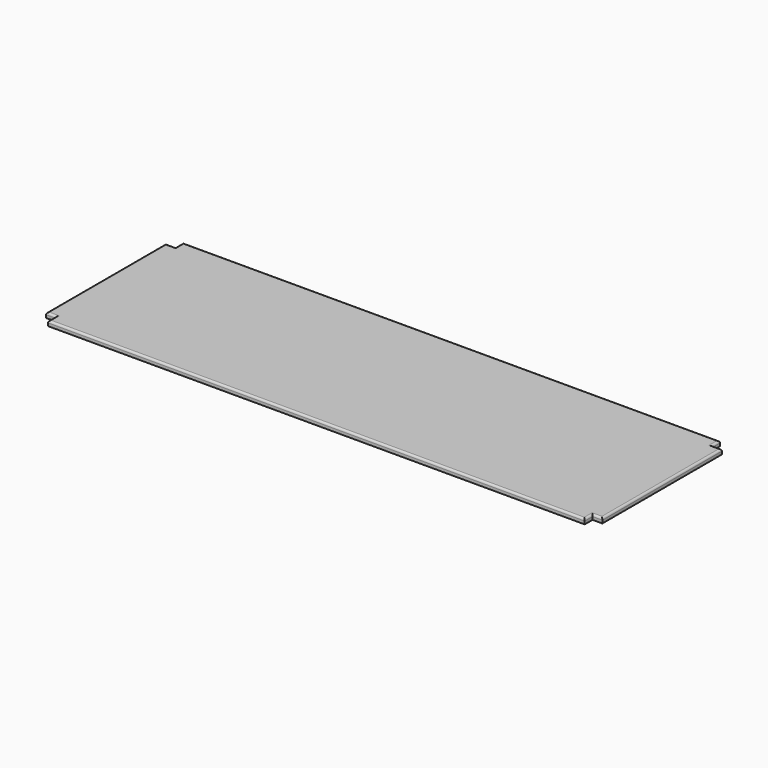
from build123d import *

# Parameters (mm, degrees)
F1_DEPTH = 12.7
F2_R     = 5.08


with BuildPart() as f1:
    # F0 (on Top) → F1 (new body)
    with BuildSketch(Plane.XY):
        Polygon((695.325, 193.675), (695.325, 219.075), (-695.325, 219.075), (-695.325, 193.675), (-720.725, 193.675), (-720.725, -193.675), (-695.325, -193.675), (-695.325, -219.075), (695.325, -219.075), (695.325, -193.675), (720.725, -193.675), (720.725, 193.675), align=None)
    extrude(amount=F1_DEPTH)

    # F2
    f2_edges = [f1.edges().sort_by_distance(p)[0] for p in [
        (695.325, 206.375, 12.7),
        (0, 219.075, 12.7),
        (-695.325, 206.375, 12.7),
        (-708.025, 193.675, 12.7),
        (-720.725, 0, 12.7),
        (-708.025, -193.675, 12.7),
        (-695.325, -206.375, 12.7),
        (0, -219.075, 12.7),
        (695.325, -206.375, 12.7),
        (708.025, -193.675, 12.7),
        (720.725, 0, 12.7),
        (708.025, 193.675, 12.7),
    ]]
    fillet(f2_edges, radius=F2_R)


solid = f1.part
